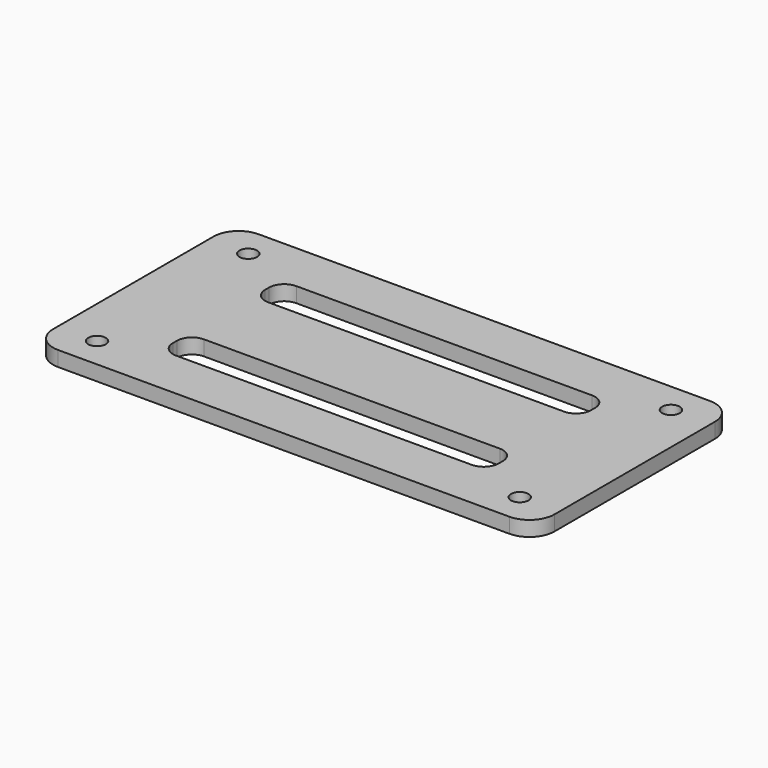
from build123d import *

# Parameters (mm, degrees)
F0_W     = 100
F0_H     = 50
F1_DEPTH = 3
F2_D     = 3.5
F2_DEPTH = 16
F3_R     = 5
F4_W     = 65
F4_H     = 7
F5_DEPTH = 25
F6_R     = 3


with BuildPart() as f1:
    # F0 (on Top) → F1 (new body)
    with BuildSketch(Plane.XY):
        Rectangle(F0_W, F0_H)
    extrude(amount=F1_DEPTH)

    # F2
    with Locations(Plane(origin=(0, 0, 0), x_dir=(1, 0, 0), z_dir=(0, 0, -1))):
        with Locations((-42.15, 18.85), (-42.15, -18.85), (42.15, 18.85), (42.15, -18.85)):
            Hole(F2_D / 2, depth=F2_DEPTH)

    # F3
    f3_edges = [f1.edges().sort_by_distance(p)[0] for p in [
        (-50, 25, 1.5),
        (-50, -25, 1.5),
        (50, 25, 1.5),
        (50, -25, 1.5),
    ]]
    fillet(f3_edges, radius=F3_R)

    # F4 (on face) → F5 (cut)
    with BuildSketch(Plane.XY.offset(3)):
        with Locations((0, 11.5)):
            Rectangle(F4_W, F4_H)
        with Locations((0, -11.5)):
            Rectangle(F4_W, F4_H)
    extrude(amount=-F5_DEPTH, mode=Mode.SUBTRACT)

    # F6
    f6_edges = [f1.edges().sort_by_distance(p)[0] for p in [
        (-32.5, 15, 1.5),
        (-32.5, 8, 1.5),
        (-32.5, -15, 1.5),
        (32.5, 8, 1.5),
        (32.5, -15, 1.5),
        (32.5, 15, 1.5),
        (32.5, -8, 1.5),
        (-32.5, -8, 1.5),
    ]]
    fillet(f6_edges, radius=F6_R)


solid = f1.part
